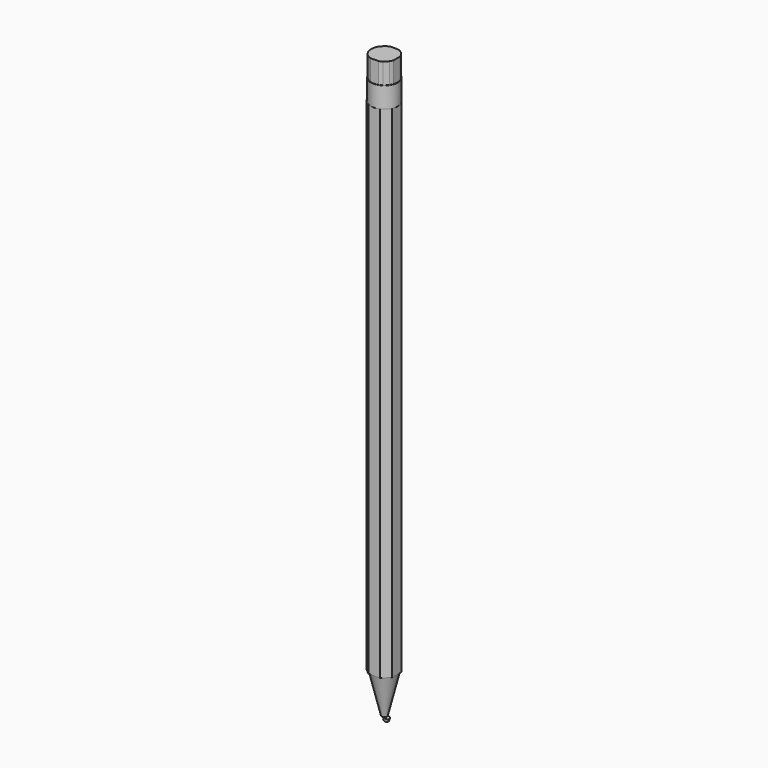
from build123d import *

# Parameters (mm, degrees)
F1_DEPTH = 3048
F2_R     = 82.3029037564
F2_R_2   = 79.8304006239
F3_DEPTH = 127
F4_DEPTH = 254


with BuildPart() as f1:
    # F0 (on Top) → F1 (new body)
    with BuildSketch(Plane.XY):
        Polygon((40.2796342969, 76.3482153416), (-37.7163849771, 76.3482153416), (-76.5313059092, 31.308259815), (-76.5313059092, -41.9274382293), (-37.7163849771, -75.6158605218), (35.1531393826, -75.6158605218), (75.4327774048, -34.9700450897), (75.4327774048, 34.9700450897), align=None)
    extrude(amount=F1_DEPTH)

    # F5 (on Front) → F6 (revolve)
    with BuildSketch(Plane.XZ):
        Polygon((75.4168406129, 0), (0, 0), (0, -243.8547999022), (16.0037322016, -243.8547999022), align=None)
    revolve(axis=Axis((0, 0, -121.9273999511), (0, 0, -1)))

    # F7 (on Front) → F8 (revolve)
    with BuildSketch(Plane.XZ):
        Polygon((16.0037322016, -243.8547999022), (0, -243.8547999022), (-2.9564606287, -260.1110326012), (11.2025477086, -263.560752261), align=None)
    revolve(axis=Axis((13.6031399551, 0, -253.7077760816), (-0.2367167315, 0, -0.9715787096)))


with BuildPart() as f3:
    # F2 (on face) → F3 (new body)
    with BuildSketch(Plane.XY.offset(3048)):
        Circle(F2_R)
        Circle(F2_R_2, mode=Mode.SUBTRACT)
    extrude(amount=F3_DEPTH)


with BuildPart() as f4:
    # F2 (on face) → F4 (new body)
    with BuildSketch(Plane.XY.offset(3048)):
        with BuildLine():
            Line((-76.5313059092, -22.7123772339), (-76.5313059092, 22.7123772339))
            ThreePointArc((-76.5313059092, 22.7123772339), (-79.8304006239, 0), (-76.5313059092, -22.7123772339))
        make_face()
        with BuildLine():
            Line((75.4327774048, -26.1302307065), (75.4327774048, 26.1302307065))
            ThreePointArc((75.4327774048, 26.1302307065), (55.3941417094, 57.483753601), (23.3204390596, 76.3482153416))
            Line((23.3204390596, 76.3482153416), (-23.3204390596, 76.3482153416))
            ThreePointArc((-23.3204390596, 76.3482153416), (-37.1176540566, 70.6765351521), (-49.6187806863, 62.5369448164))
            Line((-49.6187806863, 62.5369448164), (-69.1780500162, 39.8408114843))
            ThreePointArc((-69.1780500162, 39.8408114843), (-73.3563215818, 31.4919505233), (-76.5313059092, 22.7123772339))
            Line((-76.5313059092, 22.7123772339), (-76.5313059092, -22.7123772339))
            ThreePointArc((-76.5313059092, -22.7123772339), (-57.508004888, -55.3689645702), (-25.59559535, -75.6158605218))
            Line((-25.59559535, -75.6158605218), (25.59559535, -75.6158605218))
            ThreePointArc((25.59559535, -75.6158605218), (35.210217735, -71.6458891412), (44.2270263395, -66.4594839353))
            Line((44.2270263395, -66.4594839353), (66.8569977163, -43.6237861738))
            ThreePointArc((66.8569977163, -43.6237861738), (71.6805492914, -35.1396032569), (75.4327774048, -26.1302307065))
        make_face()
    extrude(amount=F4_DEPTH)


solid = Compound([f1.part, f3.part, f4.part])
